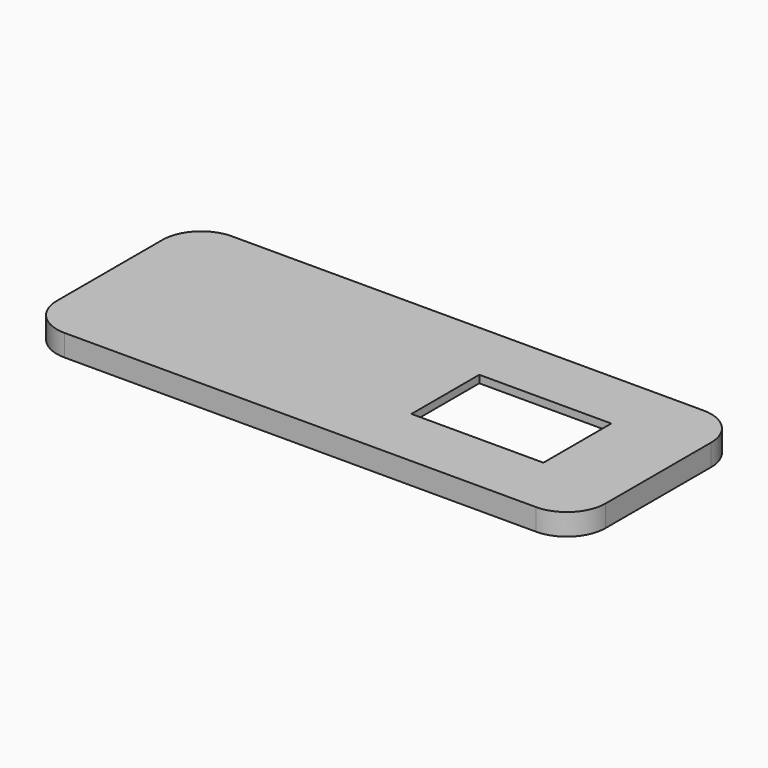
from build123d import *

# Parameters (mm, degrees)
SKETCH004_W      = 28
SKETCH004_H      = 18
EXTRUDE004_DEPTH = 1.6
EXTRUDE003_DEPTH = 3


with BuildPart() as obj1:
    # Sketch004 → Extrude004 (new body)
    with BuildSketch(Plane.XY):
        with BuildLine():
            Line((89.498192, -57.050084), (189.498192, -57.050084))
            ThreePointArc((197.698192, -65.250084), (195.296468, -59.451808), (189.498192, -57.050084))
            Line((197.698192, -65.250084), (197.698192, -93.250084))
            ThreePointArc((189.498192, -101.450084), (195.296468, -99.04836), (197.698192, -93.250084))
            Line((189.498192, -101.450084), (89.498192, -101.450084))
            ThreePointArc((81.298192, -93.250084), (83.699916, -99.04836), (89.498192, -101.450084))
            Line((81.298192, -93.250084), (81.298192, -65.250084))
            ThreePointArc((89.498192, -57.050084), (83.699916, -59.451808), (81.298192, -65.250084))
        make_face()
        with Locations((166.513474, -79.24515)):
            Rectangle(SKETCH004_W, SKETCH004_H, mode=Mode.SUBTRACT)
    extrude(amount=EXTRUDE004_DEPTH)


with BuildPart() as obj1_1:
    # Extrude004 placement: moved
    add(obj1.part.moved(Location((0, 0, 53))))


with BuildPart() as obj2:
    # Sketch003 → Extrude003 (new body)
    with BuildSketch(Plane.XY):
        with BuildLine():
            Line((89.498192, -57.050084), (189.498192, -57.050084))
            ThreePointArc((197.698192, -65.250084), (195.296468, -59.451808), (189.498192, -57.050084))
            Line((197.698192, -65.250084), (197.698192, -93.250084))
            ThreePointArc((189.498192, -101.450084), (195.296468, -99.04836), (197.698192, -93.250084))
            Line((189.498192, -101.450084), (89.498192, -101.450084))
            ThreePointArc((81.298192, -93.250084), (83.699916, -99.04836), (89.498192, -101.450084))
            Line((81.298192, -93.250084), (81.298192, -65.250084))
            ThreePointArc((89.498192, -57.050084), (83.699916, -59.451808), (81.298192, -65.250084))
        make_face()
        with BuildLine():
            Line((89.498192, -99.850084), (189.498192, -99.850084))
            ThreePointArc((189.498192, -99.850084), (194.165097, -97.916989), (196.098192, -93.250084))
            Line((196.098192, -93.250084), (196.098192, -65.250084))
            ThreePointArc((196.098192, -65.250084), (194.165097, -60.583179), (189.498192, -58.650084))
            Line((189.498192, -58.650084), (89.498192, -58.650084))
            ThreePointArc((89.498192, -58.650084), (84.831287, -60.583179), (82.898192, -65.250084))
            Line((82.898192, -65.250084), (82.898192, -93.250084))
            ThreePointArc((82.898192, -93.250084), (84.831287, -97.916989), (89.498192, -99.850084))
        make_face(mode=Mode.SUBTRACT)
    extrude(amount=EXTRUDE003_DEPTH)


with BuildPart() as obj2_1:
    # Extrude003 placement: moved
    add(obj2.part.moved(Location((0, 0, 50))))

    # Fusion001: union obj1
    add(obj1_1.part)


solid = obj2_1.part
